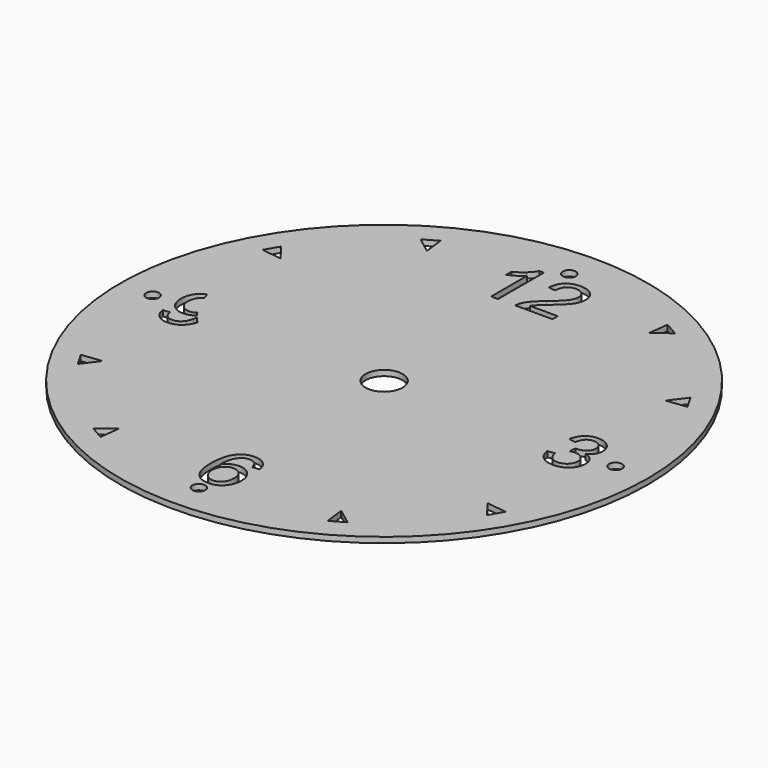
from build123d import *

# Parameters (mm, degrees)
SKETCH036_R      = 5
EXTRUDE002_DEPTH = 1
EXTRUDE_DEPTH    = 1
ARRAY003_R       = 0.35
EXTRUDE001_DEPTH = 1
SKETCH037_R      = 14.25
SKETCH037_R_2    = 1
EXTRUDE003_DEPTH = 0.3


with BuildPart() as extrude002:
    # Sketch036 → Extrude002 (new body)
    with BuildSketch(Plane.XY):
        with Locations((-5.9, 2.75)):
            Circle(SKETCH036_R)
    extrude(amount=EXTRUDE002_DEPTH)


with BuildPart() as cut:
    # Sketch034 → Extrude (new body)
    with BuildSketch(Plane.XY):
        with BuildLine():
            Line((-0.910828, 8.829352), (-1.283439, 8.829352))
            Line((-1.283439, 8.829352), (-1.283439, 11.237527))
            add(Edge.make_bspline(
                [(-1.283439, 11.237527), (-1.418684, 11.105042), (-1.63673, 10.971178)],
                knots=[0, 0, 0, 1, 1, 1], degree=2))
            add(Edge.make_bspline(
                [(-1.63673, 10.971178), (-1.854777, 10.838694), (-2.028662, 10.772452)],
                knots=[0, 0, 0, 1, 1, 1], degree=2))
            Line((-2.028662, 10.772452), (-2.028662, 11.125743))
            add(Edge.make_bspline(
                [(-2.028662, 11.125743), (-1.716773, 11.278928), (-1.483546, 11.496975)],
                knots=[0, 0, 0, 1, 1, 1], degree=2))
            add(Edge.make_bspline(
                [(-1.483546, 11.496975), (-1.248938, 11.715021), (-1.150955, 11.920648)],
                knots=[0, 0, 0, 1, 1, 1], degree=2))
            Line((-1.150955, 11.920648), (-0.910828, 11.920648))
            Line((-0.910828, 11.920648), (-0.910828, 8.829352))
        make_face()
        with BuildLine():
            Line((2.028662, 9.182643), (2.028662, 8.829352))
            Line((2.028662, 8.829352), (0.022081, 8.829352))
            add(Edge.make_bspline(
                [(0.022081, 8.829352), (0.017941, 8.964597), (0.066242, 9.09018)],
                knots=[0, 0, 0, 1, 1, 1], degree=2))
            add(Edge.make_bspline(
                [(0.066242, 9.09018), (0.142144, 9.297187), (0.31051, 9.497293)],
                knots=[0, 0, 0, 1, 1, 1], degree=2))
            add(Edge.make_bspline(
                [(0.31051, 9.497293), (0.480255, 9.698779), (0.799045, 9.962367)],
                knots=[0, 0, 0, 1, 1, 1], degree=2))
            add(Edge.make_bspline(
                [(0.799045, 9.962367), (1.2931, 10.37638), (1.466985, 10.617887)],
                knots=[0, 0, 0, 1, 1, 1], degree=2))
            add(Edge.make_bspline(
                [(1.466985, 10.617887), (1.64087, 10.859395), (1.64087, 11.074682)],
                knots=[0, 0, 0, 1, 1, 1], degree=2))
            add(Edge.make_bspline(
                [(1.64087, 11.074682), (1.64087, 11.301008), (1.482166, 11.455573)],
                knots=[0, 0, 0, 1, 1, 1], degree=2))
            add(Edge.make_bspline(
                [(1.482166, 11.455573), (1.324841, 11.611518), (1.069533, 11.611518)],
                knots=[0, 0, 0, 1, 1, 1], degree=2))
            add(Edge.make_bspline(
                [(1.069533, 11.611518), (0.800425, 11.611518), (0.63896, 11.434873)],
                knots=[0, 0, 0, 1, 1, 1], degree=2))
            add(Edge.make_bspline(
                [(0.63896, 11.434873), (0.477495, 11.259607), (0.476115, 10.949098)],
                knots=[0, 0, 0, 1, 1, 1], degree=2))
            Line((0.476115, 10.949098), (0.092463, 10.990499))
            add(Edge.make_bspline(
                [(0.092463, 10.990499), (0.132484, 11.444533), (0.389172, 11.6819)],
                knots=[0, 0, 0, 1, 1, 1], degree=2))
            add(Edge.make_bspline(
                [(0.389172, 11.6819), (0.64586, 11.920648), (1.077813, 11.920648)],
                knots=[0, 0, 0, 1, 1, 1], degree=2))
            add(Edge.make_bspline(
                [(1.077813, 11.920648), (1.515287, 11.920648), (1.769214, 11.675)],
                knots=[0, 0, 0, 1, 1, 1], degree=2))
            add(Edge.make_bspline(
                [(1.769214, 11.675), (2.024522, 11.429352), (2.024522, 11.065021)],
                knots=[0, 0, 0, 1, 1, 1], degree=2))
            add(Edge.make_bspline(
                [(2.024522, 11.065021), (2.024522, 10.880096), (1.95, 10.70069)],
                knots=[0, 0, 0, 1, 1, 1], degree=2))
            add(Edge.make_bspline(
                [(1.95, 10.70069), (1.875478, 10.522665), (1.701592, 10.325318)],
                knots=[0, 0, 0, 1, 1, 1], degree=2))
            add(Edge.make_bspline(
                [(1.701592, 10.325318), (1.529087, 10.127972), (1.127495, 9.782962)],
                knots=[0, 0, 0, 1, 1, 1], degree=2))
            add(Edge.make_bspline(
                [(1.127495, 9.782962), (0.792144, 9.493153), (0.696921, 9.38965)],
                knots=[0, 0, 0, 1, 1, 1], degree=2))
            add(Edge.make_bspline(
                [(0.696921, 9.38965), (0.601699, 9.287527), (0.539597, 9.182643)],
                knots=[0, 0, 0, 1, 1, 1], degree=2))
            Line((0.539597, 9.182643), (2.028662, 9.182643))
        make_face()
        with BuildLine():
            Line((-11.317569, -0.783864), (-10.958758, -0.750743))
            add(Edge.make_bspline(
                [(-10.958758, -0.750743), (-10.913217, -1.006051), (-10.784873, -1.121975)],
                knots=[0, 0, 0, 1, 1, 1], degree=2))
            add(Edge.make_bspline(
                [(-10.784873, -1.121975), (-10.656529, -1.236518), (-10.456423, -1.236518)],
                knots=[0, 0, 0, 1, 1, 1], degree=2))
            add(Edge.make_bspline(
                [(-10.456423, -1.236518), (-10.283917, -1.236518), (-10.155573, -1.160616)],
                knots=[0, 0, 0, 1, 1, 1], degree=2))
            add(Edge.make_bspline(
                [(-10.155573, -1.160616), (-10.025849, -1.084713), (-9.943047, -0.95913)],
                knots=[0, 0, 0, 1, 1, 1], degree=2))
            add(Edge.make_bspline(
                [(-9.943047, -0.95913), (-9.860244, -0.832166), (-9.805042, -0.616879)],
                knots=[0, 0, 0, 1, 1, 1], degree=2))
            add(Edge.make_bspline(
                [(-9.805042, -0.616879), (-9.748461, -0.401592), (-9.748461, -0.178025)],
                knots=[0, 0, 0, 1, 1, 1], degree=2))
            add(Edge.make_bspline(
                [(-9.748461, -0.178025), (-9.748461, -0.154565), (-9.749841, -0.106263)],
                knots=[0, 0, 0, 1, 1, 1], degree=2))
            add(Edge.make_bspline(
                [(-9.749841, -0.106263), (-9.861624, -0.276008), (-10.05621, -0.380892)],
                knots=[0, 0, 0, 1, 1, 1], degree=2))
            add(Edge.make_bspline(
                [(-10.05621, -0.380892), (-10.249416, -0.485775), (-10.474363, -0.485775)],
                knots=[0, 0, 0, 1, 1, 1], degree=2))
            add(Edge.make_bspline(
                [(-10.474363, -0.485775), (-10.851115, -0.485775), (-11.111943, -0.211146)],
                knots=[0, 0, 0, 1, 1, 1], degree=2))
            add(Edge.make_bspline(
                [(-11.111943, -0.211146), (-11.372771, 0.064862), (-11.372771, 0.514756)],
                knots=[0, 0, 0, 1, 1, 1], degree=2))
            add(Edge.make_bspline(
                [(-11.372771, 0.514756), (-11.372771, 0.97845), (-11.100902, 1.261359)],
                knots=[0, 0, 0, 1, 1, 1], degree=2))
            add(Edge.make_bspline(
                [(-11.100902, 1.261359), (-10.829034, 1.545648), (-10.419161, 1.545648)],
                knots=[0, 0, 0, 1, 1, 1], degree=2))
            add(Edge.make_bspline(
                [(-10.419161, 1.545648), (-10.122452, 1.545648), (-9.878185, 1.386943)],
                knots=[0, 0, 0, 1, 1, 1], degree=2))
            add(Edge.make_bspline(
                [(-9.878185, 1.386943), (-9.632537, 1.228238), (-9.505573, 0.932909)],
                knots=[0, 0, 0, 1, 1, 1], degree=2))
            add(Edge.make_bspline(
                [(-9.505573, 0.932909), (-9.377229, 0.63896), (-9.377229, 0.081423)],
                knots=[0, 0, 0, 1, 1, 1], degree=2))
            add(Edge.make_bspline(
                [(-9.377229, 0.081423), (-9.377229, -0.498195), (-9.504193, -0.843206)],
                knots=[0, 0, 0, 1, 1, 1], degree=2))
            add(Edge.make_bspline(
                [(-9.504193, -0.843206), (-9.629777, -1.186837), (-9.879565, -1.366242)],
                knots=[0, 0, 0, 1, 1, 1], degree=2))
            add(Edge.make_bspline(
                [(-9.879565, -1.366242), (-10.129352, -1.545648), (-10.464703, -1.545648)],
                knots=[0, 0, 0, 1, 1, 1], degree=2))
            add(Edge.make_bspline(
                [(-10.464703, -1.545648), (-10.820754, -1.545648), (-11.047081, -1.345541)],
                knots=[0, 0, 0, 1, 1, 1], degree=2))
            add(Edge.make_bspline(
                [(-11.047081, -1.345541), (-11.272028, -1.145435), (-11.317569, -0.783864)],
                knots=[0, 0, 0, 1, 1, 1], degree=2))
        make_face()
        with BuildLine():
            add(Edge.make_bspline(
                [(-9.791242, 0.523036), (-9.791242, 0.851486), (-9.962367, 1.043312)],
                knots=[0, 0, 0, 1, 1, 1], degree=2))
            add(Edge.make_bspline(
                [(-9.962367, 1.043312), (-10.133493, 1.236518), (-10.37362, 1.236518)],
                knots=[0, 0, 0, 1, 1, 1], degree=2))
            add(Edge.make_bspline(
                [(-10.37362, 1.236518), (-10.622028, 1.236518), (-10.806953, 1.028132)],
                knots=[0, 0, 0, 1, 1, 1], degree=2))
            add(Edge.make_bspline(
                [(-10.806953, 1.028132), (-10.990499, 0.821125), (-10.990499, 0.491295)],
                knots=[0, 0, 0, 1, 1, 1], degree=2))
            add(Edge.make_bspline(
                [(-10.990499, 0.491295), (-10.990499, 0.194586), (-10.815234, 0.00828)],
                knots=[0, 0, 0, 1, 1, 1], degree=2))
            add(Edge.make_bspline(
                [(-10.815234, 0.00828), (-10.639968, -0.176645), (-10.38328, -0.176645)],
                knots=[0, 0, 0, 1, 1, 1], degree=2))
            add(Edge.make_bspline(
                [(-10.38328, -0.176645), (-10.125212, -0.176645), (-9.958227, 0.00828)],
                knots=[0, 0, 0, 1, 1, 1], degree=2))
            add(Edge.make_bspline(
                [(-9.958227, 0.00828), (-9.791242, 0.194586), (-9.791242, 0.523036)],
                knots=[0, 0, 0, 1, 1, 1], degree=2))
        make_face(mode=Mode.SUBTRACT)
        with BuildLine():
            Line((0.948089, -9.595276), (0.576858, -9.624257))
            add(Edge.make_bspline(
                [(0.576858, -9.624257), (0.527176, -9.40069), (0.436093, -9.299947)],
                knots=[0, 0, 0, 1, 1, 1], degree=2))
            add(Edge.make_bspline(
                [(0.436093, -9.299947), (0.285669, -9.138482), (0.063482, -9.138482)],
                knots=[0, 0, 0, 1, 1, 1], degree=2))
            add(Edge.make_bspline(
                [(0.063482, -9.138482), (-0.114544, -9.138482), (-0.248408, -9.233705)],
                knots=[0, 0, 0, 1, 1, 1], degree=2))
            add(Edge.make_bspline(
                [(-0.248408, -9.233705), (-0.425053, -9.357909), (-0.527176, -9.596656)],
                knots=[0, 0, 0, 1, 1, 1], degree=2))
            add(Edge.make_bspline(
                [(-0.527176, -9.596656), (-0.627919, -9.834023), (-0.632059, -10.272877)],
                knots=[0, 0, 0, 1, 1, 1], degree=2))
            add(Edge.make_bspline(
                [(-0.632059, -10.272877), (-0.496815, -10.078291), (-0.302229, -9.984448)],
                knots=[0, 0, 0, 1, 1, 1], degree=2))
            add(Edge.make_bspline(
                [(-0.302229, -9.984448), (-0.107643, -9.889225), (0.104883, -9.889225)],
                knots=[0, 0, 0, 1, 1, 1], degree=2))
            add(Edge.make_bspline(
                [(0.104883, -9.889225), (0.477495, -9.889225), (0.739703, -10.165234)],
                knots=[0, 0, 0, 1, 1, 1], degree=2))
            add(Edge.make_bspline(
                [(0.739703, -10.165234), (1.001911, -10.441242), (1.001911, -10.877335)],
                knots=[0, 0, 0, 1, 1, 1], degree=2))
            add(Edge.make_bspline(
                [(1.001911, -10.877335), (1.001911, -11.165764), (0.877707, -11.412792)],
                knots=[0, 0, 0, 1, 1, 1], degree=2))
            add(Edge.make_bspline(
                [(0.877707, -11.412792), (0.754883, -11.658439), (0.539597, -11.789544)],
                knots=[0, 0, 0, 1, 1, 1], degree=2))
            add(Edge.make_bspline(
                [(0.539597, -11.789544), (0.32431, -11.920648), (0.051062, -11.920648)],
                knots=[0, 0, 0, 1, 1, 1], degree=2))
            add(Edge.make_bspline(
                [(0.051062, -11.920648), (-0.414013, -11.920648), (-0.707962, -11.579777)],
                knots=[0, 0, 0, 1, 1, 1], degree=2))
            add(Edge.make_bspline(
                [(-0.707962, -11.579777), (-1.001911, -11.237527), (-1.001911, -10.452282)],
                knots=[0, 0, 0, 1, 1, 1], degree=2))
            add(Edge.make_bspline(
                [(-1.001911, -10.452282), (-1.001911, -9.574575), (-0.677601, -9.175743)],
                knots=[0, 0, 0, 1, 1, 1], degree=2))
            add(Edge.make_bspline(
                [(-0.677601, -9.175743), (-0.393312, -8.829352), (0.086943, -8.829352)],
                knots=[0, 0, 0, 1, 1, 1], degree=2))
            add(Edge.make_bspline(
                [(0.086943, -8.829352), (0.444374, -8.829352), (0.673461, -9.033599)],
                knots=[0, 0, 0, 1, 1, 1], degree=2))
            add(Edge.make_bspline(
                [(0.673461, -9.033599), (0.902548, -9.236465), (0.948089, -9.595276)],
                knots=[0, 0, 0, 1, 1, 1], degree=2))
        make_face()
        with BuildLine():
            add(Edge.make_bspline(
                [(-0.574098, -10.867675), (-0.574098, -11.065021), (-0.492675, -11.244427)],
                knots=[0, 0, 0, 1, 1, 1], degree=2))
            add(Edge.make_bspline(
                [(-0.492675, -11.244427), (-0.409873, -11.423832), (-0.263588, -11.517675)],
                knots=[0, 0, 0, 1, 1, 1], degree=2))
            add(Edge.make_bspline(
                [(-0.263588, -11.517675), (-0.115924, -11.611518), (0.045541, -11.611518)],
                knots=[0, 0, 0, 1, 1, 1], degree=2))
            add(Edge.make_bspline(
                [(0.045541, -11.611518), (0.281529, -11.611518), (0.451274, -11.416932)],
                knots=[0, 0, 0, 1, 1, 1], degree=2))
            add(Edge.make_bspline(
                [(0.451274, -11.416932), (0.621019, -11.222346), (0.621019, -10.889756)],
                knots=[0, 0, 0, 1, 1, 1], degree=2))
            add(Edge.make_bspline(
                [(0.621019, -10.889756), (0.621019, -10.568206), (0.452654, -10.38328)],
                knots=[0, 0, 0, 1, 1, 1], degree=2))
            add(Edge.make_bspline(
                [(0.452654, -10.38328), (0.285669, -10.198355), (0.030361, -10.198355)],
                knots=[0, 0, 0, 1, 1, 1], degree=2))
            add(Edge.make_bspline(
                [(0.030361, -10.198355), (-0.222187, -10.198355), (-0.398832, -10.38328)],
                knots=[0, 0, 0, 1, 1, 1], degree=2))
            add(Edge.make_bspline(
                [(-0.398832, -10.38328), (-0.574098, -10.568206), (-0.574098, -10.867675)],
                knots=[0, 0, 0, 1, 1, 1], degree=2))
        make_face(mode=Mode.SUBTRACT)
        with BuildLine():
            Line((9.381369, -0.712102), (9.753981, -0.66242))
            add(Edge.make_bspline(
                [(9.753981, -0.66242), (9.818843, -0.96741), (9.972028, -1.102654)],
                knots=[0, 0, 0, 1, 1, 1], degree=2))
            add(Edge.make_bspline(
                [(9.972028, -1.102654), (10.126592, -1.236518), (10.348779, -1.236518)],
                knots=[0, 0, 0, 1, 1, 1], degree=2))
            add(Edge.make_bspline(
                [(10.348779, -1.236518), (10.610987, -1.236518), (10.791773, -1.065393)],
                knots=[0, 0, 0, 1, 1, 1], degree=2))
            add(Edge.make_bspline(
                [(10.791773, -1.065393), (10.973938, -0.894268), (10.973938, -0.64172)],
                knots=[0, 0, 0, 1, 1, 1], degree=2))
            add(Edge.make_bspline(
                [(10.973938, -0.64172), (10.973938, -0.401592), (10.805573, -0.245648)],
                knots=[0, 0, 0, 1, 1, 1], degree=2))
            add(Edge.make_bspline(
                [(10.805573, -0.245648), (10.638588, -0.088323), (10.37914, -0.088323)],
                knots=[0, 0, 0, 1, 1, 1], degree=2))
            add(Edge.make_bspline(
                [(10.37914, -0.088323), (10.274257, -0.088323), (10.116932, -0.129724)],
                knots=[0, 0, 0, 1, 1, 1], degree=2))
            Line((10.116932, -0.129724), (10.158333, 0.224947))
            add(Edge.make_bspline(
                [(10.158333, 0.224947), (10.195594, 0.220807), (10.217675, 0.220807)],
                knots=[0, 0, 0, 1, 1, 1], degree=2))
            add(Edge.make_bspline(
                [(10.217675, 0.220807), (10.456423, 0.220807), (10.646868, 0.349151)],
                knots=[0, 0, 0, 1, 1, 1], degree=2))
            add(Edge.make_bspline(
                [(10.646868, 0.349151), (10.837314, 0.477495), (10.837314, 0.745223)],
                knots=[0, 0, 0, 1, 1, 1], degree=2))
            add(Edge.make_bspline(
                [(10.837314, 0.745223), (10.837314, 0.957749), (10.69793, 1.097134)],
                knots=[0, 0, 0, 1, 1, 1], degree=2))
            add(Edge.make_bspline(
                [(10.69793, 1.097134), (10.559926, 1.236518), (10.340499, 1.236518)],
                knots=[0, 0, 0, 1, 1, 1], degree=2))
            add(Edge.make_bspline(
                [(10.340499, 1.236518), (10.122452, 1.236518), (9.977548, 1.092994)],
                knots=[0, 0, 0, 1, 1, 1], degree=2))
            add(Edge.make_bspline(
                [(9.977548, 1.092994), (9.832643, 0.949469), (9.791242, 0.66242)],
                knots=[0, 0, 0, 1, 1, 1], degree=2))
            Line((9.791242, 0.66242), (9.418631, 0.728662))
            add(Edge.make_bspline(
                [(9.418631, 0.728662), (9.487633, 1.117834), (9.72914, 1.331741)],
                knots=[0, 0, 0, 1, 1, 1], degree=2))
            add(Edge.make_bspline(
                [(9.72914, 1.331741), (9.972028, 1.545648), (10.332219, 1.545648)],
                knots=[0, 0, 0, 1, 1, 1], degree=2))
            add(Edge.make_bspline(
                [(10.332219, 1.545648), (10.580626, 1.545648), (10.789013, 1.435244)],
                knots=[0, 0, 0, 1, 1, 1], degree=2))
            add(Edge.make_bspline(
                [(10.789013, 1.435244), (10.998779, 1.324841), (11.109183, 1.134395)],
                knots=[0, 0, 0, 1, 1, 1], degree=2))
            add(Edge.make_bspline(
                [(11.109183, 1.134395), (11.219586, 0.943949), (11.219586, 0.730042)],
                knots=[0, 0, 0, 1, 1, 1], degree=2))
            add(Edge.make_bspline(
                [(11.219586, 0.730042), (11.219586, 0.525796), (11.113323, 0.358811)],
                knots=[0, 0, 0, 1, 1, 1], degree=2))
            add(Edge.make_bspline(
                [(11.113323, 0.358811), (11.008439, 0.191826), (10.801433, 0.093843)],
                knots=[0, 0, 0, 1, 1, 1], degree=2))
            add(Edge.make_bspline(
                [(10.801433, 0.093843), (11.070541, 0.034501), (11.219586, -0.154565)],
                knots=[0, 0, 0, 1, 1, 1], degree=2))
            add(Edge.make_bspline(
                [(11.219586, -0.154565), (11.368631, -0.343631), (11.368631, -0.627919)],
                knots=[0, 0, 0, 1, 1, 1], degree=2))
            add(Edge.make_bspline(
                [(11.368631, -0.627919), (11.368631, -1.011571), (11.078822, -1.279299)],
                knots=[0, 0, 0, 1, 1, 1], degree=2))
            add(Edge.make_bspline(
                [(11.078822, -1.279299), (10.789013, -1.545648), (10.346019, -1.545648)],
                knots=[0, 0, 0, 1, 1, 1], degree=2))
            add(Edge.make_bspline(
                [(10.346019, -1.545648), (9.947187, -1.545648), (9.682219, -1.3138)],
                knots=[0, 0, 0, 1, 1, 1], degree=2))
            add(Edge.make_bspline(
                [(9.682219, -1.3138), (9.418631, -1.081953), (9.381369, -0.712102)],
                knots=[0, 0, 0, 1, 1, 1], degree=2))
        make_face()
    extrude(amount=EXTRUDE_DEPTH)

    # Cut: cut Extrude002
    add(extrude002.part, mode=Mode.SUBTRACT)


with BuildPart() as fusion001:
    # Array003 → Extrude001 (new body)
    with BuildSketch(Plane(origin=(0, 0, 0), x_dir=(0, 1, 0), z_dir=(0, 0, 1))):
        with Locations((12.5, 0)):
            Circle(ARRAY003_R)
        Polygon((10.392305, -6), (11.47083, -6.131939), (11.04583, -6.868061), align=None)
        Polygon((6, -10.392305), (6.868061, -11.04583), (6.131939, -11.47083), align=None)
        with Locations((0, 12.5)):
            Circle(ARRAY003_R)
        Polygon((6, 10.392305), (6.131939, 11.47083), (6.868061, 11.04583), align=None)
        Polygon((10.392305, 6), (11.04583, 6.868061), (11.47083, 6.131939), align=None)
        with Locations((-12.5, 0)):
            Circle(ARRAY003_R)
        Polygon((-10.392305, 6), (-11.47083, 6.131939), (-11.04583, 6.868061), align=None)
        Polygon((-6, 10.392305), (-6.868061, 11.04583), (-6.131939, 11.47083), align=None)
        with Locations((0, -12.5)):
            Circle(ARRAY003_R)
        Polygon((-6, -10.392305), (-6.131939, -11.47083), (-6.868061, -11.04583), align=None)
        Polygon((-10.392305, -6), (-11.04583, -6.868061), (-11.47083, -6.131939), align=None)
    extrude(amount=EXTRUDE001_DEPTH)

    # Fusion001: union Cut
    add(cut.part)


with BuildPart() as dialsandwichhaut_b:
    # Sketch037 → Extrude003 (new body)
    with BuildSketch(Plane.XY.offset(0.7)):
        Circle(SKETCH037_R)
        Circle(SKETCH037_R_2, mode=Mode.SUBTRACT)
    extrude(amount=EXTRUDE003_DEPTH)

    # Cut001: cut Fusion001
    add(fusion001.part, mode=Mode.SUBTRACT)


solid = dialsandwichhaut_b.part
